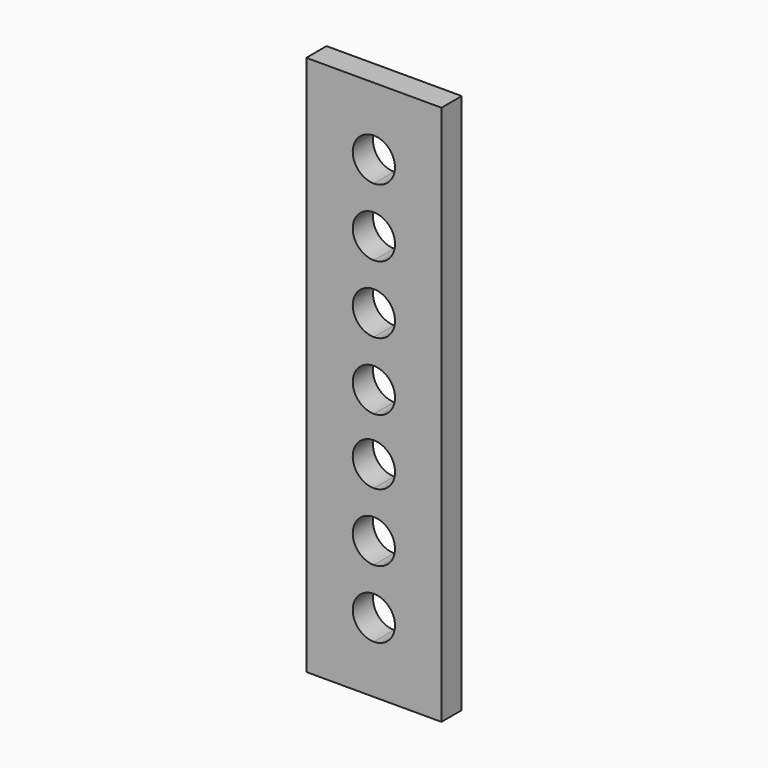
from build123d import *

# Parameters (mm, degrees)
F0_W     = 16
F0_H     = 64
F1_DEPTH = 3
F4_DEPTH = 3.001


with BuildPart() as f1:
    # F0 (on Front) → F1 (new body)
    with BuildSketch(Plane.XZ):
        Rectangle(F0_W, F0_H)
    extrude(amount=F1_DEPTH)

    # F2 (on face) → F4 (cut, through all)
    with BuildSketch(Plane.XZ.offset(3)):
        with BuildLine():
            ThreePointArc((2.5, 24), (1.767766953, 25.767766953), (0, 26.5))
            Line((0, 26.5), (0, 21.5))
            ThreePointArc((0, 21.5), (1.767766953, 22.232233047), (2.5, 24))
        make_face()
        with BuildLine():
            Line((0, 21.5), (0, 26.5))
            ThreePointArc((0, 26.5), (-2.5, 24), (0, 21.5))
        make_face()
        with BuildLine():
            ThreePointArc((2.5, 16), (1.767766953, 17.767766953), (0, 18.5))
            Line((0, 18.5), (0, 13.5))
            ThreePointArc((0, 13.5), (1.767766953, 14.232233047), (2.5, 16))
        make_face()
        with BuildLine():
            Line((0, 13.5), (0, 18.5))
            ThreePointArc((0, 18.5), (-2.5, 16), (0, 13.5))
        make_face()
        with BuildLine():
            ThreePointArc((2.5, 8), (1.767766953, 9.767766953), (0, 10.5))
            Line((0, 10.5), (0, 5.5))
            ThreePointArc((0, 5.5), (1.767766953, 6.232233047), (2.5, 8))
        make_face()
        with BuildLine():
            Line((0, 5.5), (0, 10.5))
            ThreePointArc((0, 10.5), (-2.5, 8), (0, 5.5))
        make_face()
        with BuildLine():
            ThreePointArc((2.5, 0), (1.767766953, 1.767766953), (0, 2.5))
            Line((0, 2.5), (0, -2.5))
            ThreePointArc((0, -2.5), (1.767766953, -1.767766953), (2.5, 0))
        make_face()
        with BuildLine():
            Line((0, -2.5), (0, 2.5))
            ThreePointArc((0, 2.5), (-2.5, 0), (0, -2.5))
        make_face()
        with BuildLine():
            Line((0, -5.25), (0, -10.25))
            ThreePointArc((0, -10.25), (1.767766953, -9.517766953), (2.5, -7.75))
            ThreePointArc((2.5, -7.75), (1.767766953, -5.982233047), (0, -5.25))
        make_face()
        with BuildLine():
            ThreePointArc((0, -5.25), (-2.5, -7.75), (0, -10.25))
            Line((0, -10.25), (0, -5.25))
        make_face()
        with BuildLine():
            Line((0, -13.25), (0, -18.25))
            ThreePointArc((0, -18.25), (1.767766953, -17.517766953), (2.5, -15.75))
            ThreePointArc((2.5, -15.75), (1.767766953, -13.982233047), (0, -13.25))
        make_face()
        with BuildLine():
            ThreePointArc((0, -13.25), (-2.5, -15.75), (0, -18.25))
            Line((0, -18.25), (0, -13.25))
        make_face()
        with BuildLine():
            Line((0, -21.25), (0, -26.25))
            ThreePointArc((0, -26.25), (1.767766953, -25.517766953), (2.5, -23.75))
            ThreePointArc((2.5, -23.75), (1.767766953, -21.982233047), (0, -21.25))
        make_face()
        with BuildLine():
            ThreePointArc((0, -21.25), (-2.5, -23.75), (0, -26.25))
            Line((0, -26.25), (0, -21.25))
        make_face()
    extrude(amount=-F4_DEPTH, mode=Mode.SUBTRACT)


solid = f1.part
